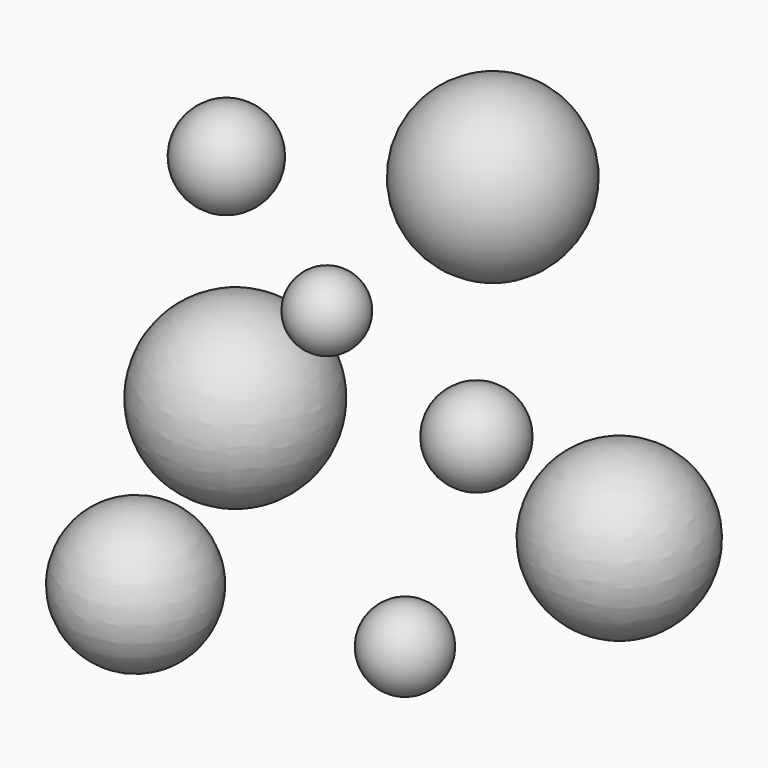
from build123d import *


with BuildPart() as f1:
    # F0 (on Front) → F1 (revolve)
    with BuildSketch(Plane.XZ):
        with BuildLine():
            Line((-18.034546, -35.189932), (-18.034546, -21.992313))
            ThreePointArc((-18.034546, -21.992313), (-24.633355, -28.591122), (-18.034546, -35.189932))
        make_face()
    revolve(axis=Axis((-18.034546, 0, -28.591122), (0, 0, -1)))


with BuildPart() as f2:
    # F0 (on Front) → F2 (revolve)
    with BuildSketch(Plane.XZ):
        with BuildLine():
            Line((-8.629862, -18.237673), (-8.629862, -1.88731))
            ThreePointArc((-8.629862, -1.88731), (-16.805043, -10.062492), (-8.629862, -18.237673))
        make_face()
    revolve(axis=Axis((-8.629862, 0, -10.062492), (0, 0, -1)))


with BuildPart() as f3:
    # F0 (on Front) → F3 (revolve)
    with BuildSketch(Plane.XZ):
        with BuildLine():
            Line((-9.472073, 5.393912), (-9.472073, 14.065))
            ThreePointArc((-9.472073, 14.065), (-13.807617, 9.729456), (-9.472073, 5.393912))
        make_face()
    revolve(axis=Axis((-9.472073, 0, 9.729456), (0, 0, -1)))


with BuildPart() as f4:
    # F0 (on Front) → F4 (revolve)
    with BuildSketch(Plane.XZ):
        with BuildLine():
            Line((15.653873, 8.373541), (15.653873, 23.999265))
            ThreePointArc((15.653873, 23.999265), (7.841011, 16.186403), (15.653873, 8.373541))
        make_face()
    revolve(axis=Axis((15.653873, 0, 16.186403), (0, 0, -1)))


with BuildPart() as f5:
    # F0 (on Front) → F5 (revolve)
    with BuildSketch(Plane.XZ):
        with BuildLine():
            Line((0, -3.353686), (0, 3.353686))
            ThreePointArc((0, 3.353686), (-3.353686, 0), (0, -3.353686))
        make_face()
    revolve(axis=Axis((0, 0, 0), (0, 0, -1)))


with BuildPart() as f6:
    # F0 (on Front) → F6 (revolve)
    with BuildSketch(Plane.XZ):
        with BuildLine():
            Line((14.109821, -9.996468), (14.109821, -1.70641))
            ThreePointArc((14.109821, -1.70641), (9.964792, -5.851439), (14.109821, -9.996468))
        make_face()
    revolve(axis=Axis((14.109821, 0, -5.851439), (0, 0, -1)))


with BuildPart() as f7:
    # F0 (on Front) → F7 (revolve)
    with BuildSketch(Plane.XZ):
        with BuildLine():
            Line((7.372138, -29.208851), (7.372138, -21.797187))
            ThreePointArc((7.372138, -21.797187), (3.666306, -25.503019), (7.372138, -29.208851))
        make_face()
    revolve(axis=Axis((7.372138, 0, -25.503019), (0, 0, -1)))


with BuildPart() as f8:
    # F0 (on Front) → F8 (revolve)
    with BuildSketch(Plane.XZ):
        with BuildLine():
            Line((27.58519, -17.489009), (27.58519, -2.355238))
            ThreePointArc((27.58519, -2.355238), (20.018304, -9.922124), (27.58519, -17.489009))
        make_face()
    revolve(axis=Axis((27.58519, 0, -9.922124), (0, 0, 1)))


solid = Compound([f1.part, f2.part, f3.part, f4.part, f5.part, f6.part, f7.part, f8.part])
